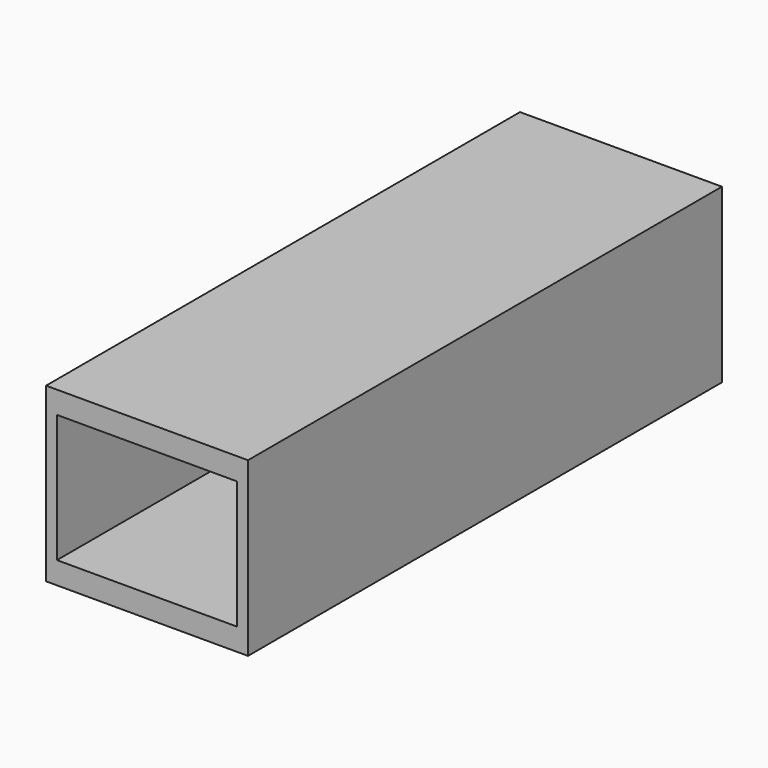
from build123d import *

# Parameters (mm, degrees)
F0_W     = 304.8
F0_H     = 88.646
F1_DEPTH = 103.886
F3_W     = 92.71
F3_H     = 65.786
F4_DEPTH = 1270


with BuildPart() as f1:
    # F0 (on Right) → F1 (new body)
    with BuildSketch(Plane.YZ):
        Rectangle(F0_W, F0_H)
    extrude(amount=F1_DEPTH)

    # F3 (on face) → F4 (cut)
    with BuildSketch(Plane.XZ.offset(152.4)):
        with Locations((51.943, 0)):
            Rectangle(F3_W, F3_H)
    extrude(amount=-F4_DEPTH, mode=Mode.SUBTRACT)


solid = f1.part
